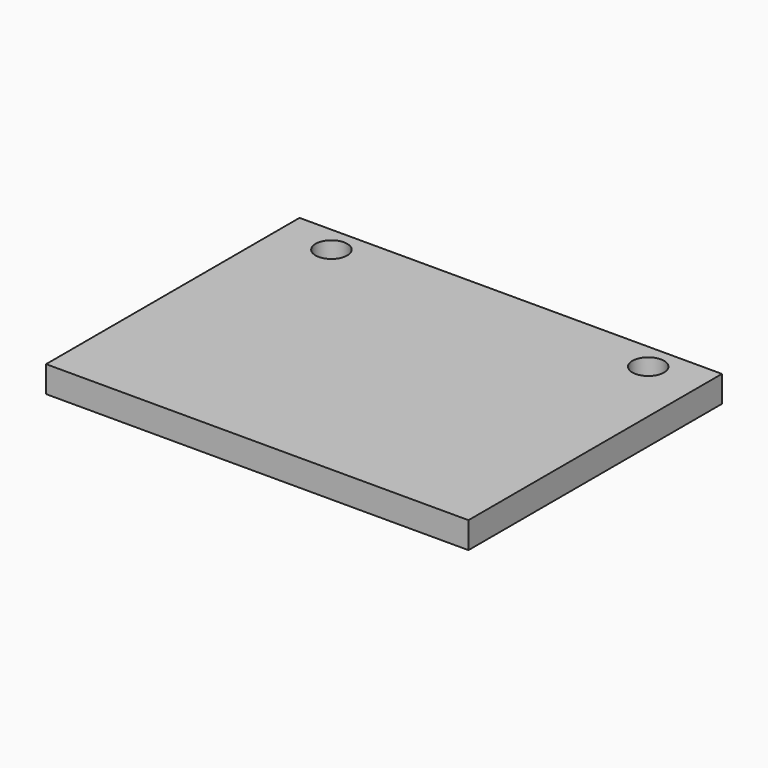
from build123d import *

# Parameters (mm, degrees)
F0_W     = 101.6
F0_H     = 76.2
F2_DEPTH = 6.35
F1_R     = 3.81
F3_DEPTH = 6.351


with BuildPart() as f2:
    # F0 (on Top) → F2 (new body)
    with BuildSketch(Plane.XY):
        Rectangle(F0_W, F0_H)
    extrude(amount=F2_DEPTH)

    # F1 (on Top) → F3 (cut, through all)
    with BuildSketch(Plane.XY):
        with Locations((38.153803, 31.75)):
            Circle(F1_R)
        with Locations((-38.046197, 31.75)):
            Circle(F1_R)
    extrude(amount=F3_DEPTH, mode=Mode.SUBTRACT)


solid = f2.part
